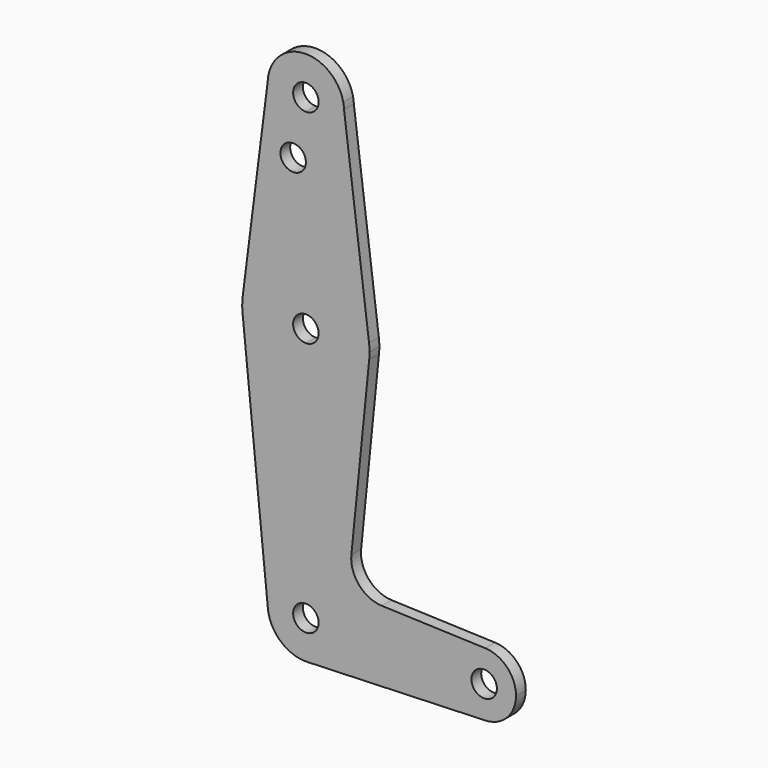
from build123d import *

# Parameters (mm, degrees)
F0_R     = 3.175
F1_DEPTH = 3.048


with BuildPart() as f1:
    # F0 (on Front) → F1 (new body)
    with BuildSketch(Plane.XZ):
        with BuildLine():
            Line((9.3145866687, 116.2910048197), (9.5168287661, 114.6944556215))
            ThreePointArc((9.5168287661, 114.6944556215), (9.4494864492, 115.4970091251), (9.3145866687, 116.2910048197))
        make_face()
        with BuildLine():
            ThreePointArc((-9.3145866687, 116.2910048197), (-9.4494864492, 115.4970091251), (-9.5168287661, 114.6944556215))
            Line((-9.5168287661, 114.6944556215), (-9.3145866687, 116.2910048197))
        make_face()
        with BuildLine():
            ThreePointArc((9.525, 114.3), (6.7351920908, 107.5648079092), (0, 104.775))
            Line((0, 104.775), (0, 100.0252))
            Line((0, 100.0252), (0, 79.375))
            ThreePointArc((0, 79.375), (10.4963031245, 75.4097962081), (15.7491440821, 65.4950152086))
            Line((15.7491440821, 65.4950152086), (9.5168287661, 114.6944556215))
            ThreePointArc((9.5168287661, 114.6944556215), (9.5229569724, 114.4972701234), (9.525, 114.3))
        make_face()
        with BuildLine():
            ThreePointArc((0, 47.625), (-10.6492737428, 51.7267849017), (-15.7954255641, 61.9125))
            Line((-15.7954255641, 61.9125), (-9.4772553384, -0.9525))
            ThreePointArc((-9.4772553384, -0.9525), (-7.063929059, 6.3895642457), (0, 9.525))
            Line((0, 9.525), (0, 47.625))
        make_face()
        with BuildLine():
            ThreePointArc((9.525, 0), (6.8544082857, -6.6138273378), (0.3401785714, -9.5189234444))
            Line((0.3401785714, -9.5189234444), (44.7334821429, -7.9324362036))
            ThreePointArc((44.7334821429, -7.9324362036), (38.9384772185, -5.7120069047), (36.5125, 0))
            Line((36.5125, 0), (9.525, 0))
        make_face()
        with BuildLine():
            ThreePointArc((36.5125, 0), (38.9384772185, -5.7120069047), (44.7334821429, -7.9324362036))
            ThreePointArc((44.7334821429, -7.9324362036), (50.1620069047, -5.5115227815), (52.3875, 0))
            ThreePointArc((52.3875, 0), (50.1620069047, 5.5115227815), (44.7334821429, 7.9324362036))
            ThreePointArc((44.7334821429, 7.9324362036), (38.9384772185, 5.7120069047), (36.5125, 0))
        make_face()
        with BuildLine():
            ThreePointArc((47.625, 0), (44.45, -3.175), (41.275, 0))
            ThreePointArc((41.275, 0), (44.45, 3.175), (47.625, 0))
        make_face(mode=Mode.SUBTRACT)
        with BuildLine():
            Line((0, 100.0252), (0, 104.775))
            ThreePointArc((0, 104.775), (-6.8732384942, 107.7057435899), (-9.5168287661, 114.6944556215))
            Line((-9.5168287661, 114.6944556215), (-15.7491440821, 65.4950152086))
            ThreePointArc((-15.7491440821, 65.4950152086), (-10.4963031245, 75.4097962081), (0, 79.375))
            Line((0, 79.375), (0, 100.0252))
        make_face()
        with Locations((-3.175, 100.0252)):
            Circle(F0_R, mode=Mode.SUBTRACT)
        with BuildLine():
            ThreePointArc((15.7491440821, 65.4950152086), (10.4963031245, 75.4097962081), (0, 79.375))
            Line((0, 79.375), (0, 66.675))
            ThreePointArc((0, 66.675), (2.2450640303, 65.7450640303), (3.175, 63.5))
            ThreePointArc((3.175, 63.5), (2.2450640303, 61.2549359697), (0, 60.325))
            Line((0, 60.325), (0, 47.625))
            ThreePointArc((0, 47.625), (10.6492737428, 51.7267849017), (15.7954255641, 61.9125))
            ThreePointArc((15.7954255641, 61.9125), (15.8550939106, 62.7052534459), (15.875, 63.5))
            ThreePointArc((15.875, 63.5), (15.843504778, 64.4994905445), (15.7491440821, 65.4950152086))
        make_face()
        with BuildLine():
            Line((0, 66.675), (0, 79.375))
            ThreePointArc((0, 79.375), (-10.4963031245, 75.4097962081), (-15.7491440821, 65.4950152086))
            ThreePointArc((-15.7491440821, 65.4950152086), (-15.8736754517, 63.7050674406), (-15.7954255641, 61.9125))
            ThreePointArc((-15.7954255641, 61.9125), (-10.6492737428, 51.7267849017), (0, 47.625))
            Line((0, 47.625), (0, 60.325))
            ThreePointArc((0, 60.325), (-3.175, 63.5), (0, 66.675))
        make_face()
        with BuildLine():
            ThreePointArc((0, 9.525), (-7.063929059, 6.3895642457), (-9.4772553384, -0.9525))
            ThreePointArc((-9.4772553384, -0.9525), (-6.2623833816, -7.1769199091), (0.3401785714, -9.5189234444))
            ThreePointArc((0.3401785714, -9.5189234444), (6.8544082857, -6.6138273378), (9.525, 0))
            Line((9.525, 0), (3.175, 0))
            ThreePointArc((3.175, 0), (-2.2450640303, -2.2450640303), (0, 3.175))
            Line((0, 3.175), (0, 9.525))
        make_face()
        with BuildLine():
            ThreePointArc((-9.5168287661, 114.6944556215), (-6.8732384942, 107.7057435899), (0, 104.775))
            ThreePointArc((0, 104.775), (6.7351920908, 107.5648079092), (9.525, 114.3))
            ThreePointArc((9.525, 114.3), (9.5229569724, 114.4972701234), (9.5168287661, 114.6944556215))
            Line((9.5168287661, 114.6944556215), (9.3145866687, 116.2910048197))
            ThreePointArc((9.3145866687, 116.2910048197), (0, 123.825), (-9.3145866687, 116.2910048197))
            Line((-9.3145866687, 116.2910048197), (-9.5168287661, 114.6944556215))
        make_face()
        with BuildLine():
            ThreePointArc((3.175, 114.3), (2.2450640303, 112.0549359697), (0, 111.125))
            ThreePointArc((0, 111.125), (-2.2450640303, 116.5450640303), (3.175, 114.3))
        make_face(mode=Mode.SUBTRACT)
        with BuildLine():
            ThreePointArc((15.7954255641, 61.9125), (10.6492737428, 51.7267849017), (0, 47.625))
            Line((0, 47.625), (0, 9.525))
            ThreePointArc((0, 9.525), (6.7351920908, 6.7351920908), (9.525, 0))
            Line((9.525, 0), (36.5125, 0))
            ThreePointArc((36.5125, 0), (38.9384772185, 5.7120069047), (44.7334821429, 7.9324362036))
            Line((44.7334821429, 7.9324362036), (18.9676000005, 8.8532337108))
            ThreePointArc((18.9676000005, 8.8532337108), (13.2611998974, 11.5713591498), (11.3411865923, 17.5933818124))
            Line((11.3411865923, 17.5933818124), (15.7954255641, 61.9125))
        make_face()
        with BuildLine():
            ThreePointArc((9.525, 0), (6.7351920908, 6.7351920908), (0, 9.525))
            Line((0, 9.525), (0, 3.175))
            ThreePointArc((0, 3.175), (2.2450640303, 2.2450640303), (3.175, 0))
            Line((3.175, 0), (9.525, 0))
        make_face()
    extrude(amount=F1_DEPTH)


solid = f1.part
